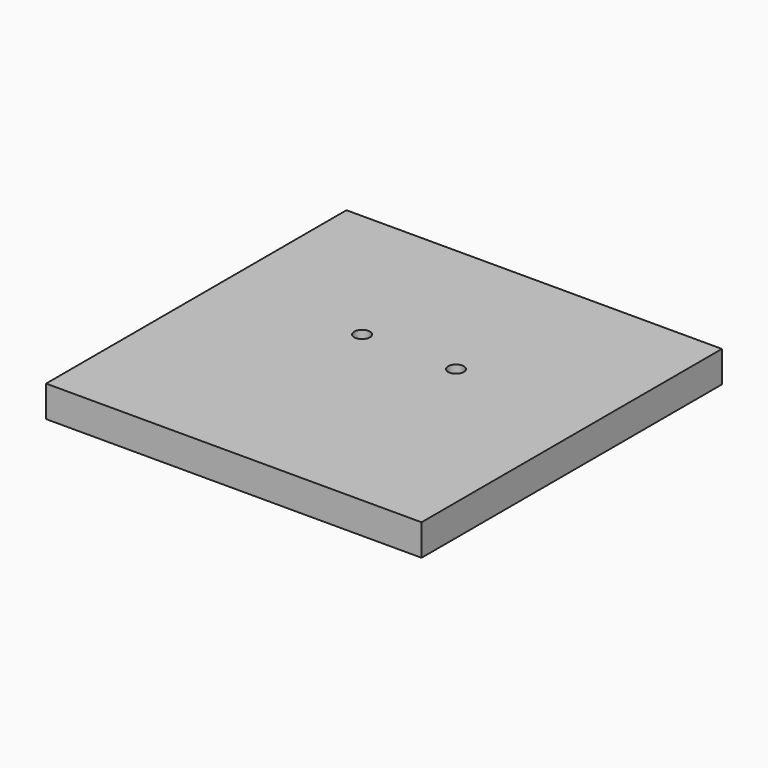
from build123d import *

# Parameters (mm, degrees)
F0_W     = 120
F0_H     = 120
F1_DEPTH = 10
F2_W     = 112
F2_H     = 10
F3_DEPTH = 6
F5_D     = 5


with BuildPart() as f1:
    # F0 (on Top) → F1 (new body)
    with BuildSketch(Plane.XY):
        with Locations((60, 60)):
            Rectangle(F0_W, F0_H)
    extrude(amount=F1_DEPTH)

    # F2 (on face) → F3 (cut)
    with BuildSketch(Plane(origin=(0, 0, 0), x_dir=(1, 0, 0), z_dir=(0, 0, -1))):
        with Locations((60, -105)):
            Rectangle(F2_W, F2_H)
        with Locations((60, -35)):
            Rectangle(F2_W, F2_H)
    extrude(amount=-F3_DEPTH, mode=Mode.SUBTRACT)

    # F5 (through all)
    with Locations(Plane.XY.offset(10)):
        with Locations((45, 70), (75, 70)):
            Hole(F5_D / 2)


solid = f1.part
